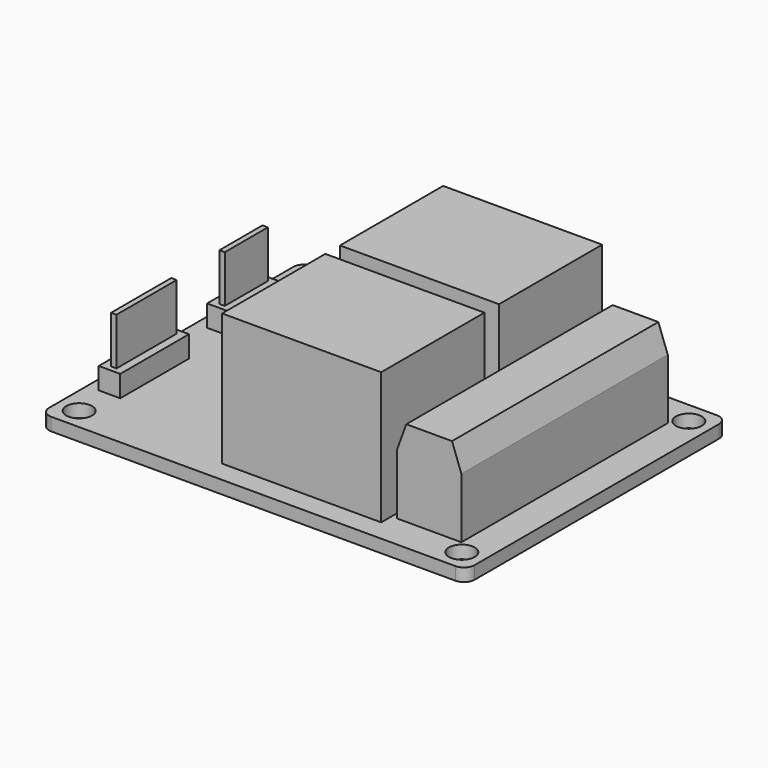
from build123d import *

# Parameters (mm, degrees)
F0_W          = 50.292
F0_H          = 38.608
F0_R          = 1.524
F1_DEPTH      = 1.524
F2_R          = 1.27
F3_W          = 7.62
F3_H          = 30.48
F4_DEPTH      = 10.16
F5_SIZE2      = 1.109381
F5_SIZE       = 3.048
F3_W_2        = 18.796
F3_H_2        = 15.24
F6_DEPTH      = 15.621
F3_W_3        = 2.54
F3_H_3        = 7.62
F3_H_4        = 10.16
F7_DEPTH      = 2.54
F8_W          = 0.635
F8_H          = 6.35
F8_H_2        = 8.89
F9_DEPTH      = 5.588
F9_DEPTH_BACK = 5.715
F10_W         = 1.778
F10_H         = 25.908
F11_DEPTH     = 2.159


with BuildPart() as f1:
    # F0 (on Top) → F1 (new body)
    with BuildSketch(Plane.XY):
        with Locations((25.146, 19.304)):
            Rectangle(F0_W, F0_H)
        with Locations((2.54, 2.54)):
            Circle(F0_R, mode=Mode.SUBTRACT)
        with Locations((47.752, 2.54)):
            Circle(F0_R, mode=Mode.SUBTRACT)
        with Locations((2.54, 36.068)):
            Circle(F0_R, mode=Mode.SUBTRACT)
        with Locations((47.752, 36.068)):
            Circle(F0_R, mode=Mode.SUBTRACT)
    extrude(amount=F1_DEPTH)

    # F2
    f2_edges = [f1.edges().sort_by_distance(p)[0] for p in [
        (50.292, 38.608, 0.762),
        (0, 38.608, 0.762),
        (0, 0, 0.762),
        (50.292, 0, 0.762),
    ]]
    fillet(f2_edges, radius=F2_R)


with BuildPart() as f4:
    # F3 (on face) → F4 (new body)
    with BuildSketch(Plane.XY.offset(1.524)):
        with Locations((42.672, 19.304)):
            Rectangle(F3_W, F3_H)
    extrude(amount=F4_DEPTH)

    # F5
    f5_edges = [f4.edges().sort_by_distance(p)[0] for p in [
        (46.482, 19.304, 11.684),
        (38.862, 19.304, 11.684),
    ]]
    chamfer(f5_edges, length=F5_SIZE, length2=F5_SIZE2)


with BuildPart() as f6:
    # F3 (on face) → F6 (new body)
    with BuildSketch(Plane.XY.offset(1.524)):
        with Locations((28.829, 27.559)):
            Rectangle(F3_W_2, F3_H_2)
        with Locations((28.829, 10.16)):
            Rectangle(F3_W_2, F3_H_2)
    extrude(amount=F6_DEPTH)


with BuildPart() as f7:
    # F3 (on face) → F7 (new body)
    with BuildSketch(Plane.XY.offset(1.524)):
        with Locations((2.667, 26.67)):
            Rectangle(F3_W_3, F3_H_3)
        with Locations((2.667, 11.938)):
            Rectangle(F3_W_3, F3_H_4)
    extrude(amount=F7_DEPTH)


with BuildPart() as f9:
    # F8 (on face) → F9 (new body, two sides)
    with BuildSketch(Plane.XY.offset(4.064)) as f9_sk:
        with Locations((2.667, 26.67)):
            Rectangle(F8_W, F8_H)
        with Locations((2.667, 11.938)):
            Rectangle(F8_W, F8_H_2)
    extrude(amount=F9_DEPTH)
    extrude(f9_sk.sketch, amount=-F9_DEPTH_BACK)


with BuildPart() as f11:
    # F10 (on face) → F11 (new body)
    with BuildSketch(Plane(origin=(0, 0, 0), x_dir=(1, 0, 0), z_dir=(0, 0, -1))):
        with Locations((42.672, -19.304)):
            Rectangle(F10_W, F10_H)
    extrude(amount=F11_DEPTH)


solid = Compound([f1.part, f4.part, f6.part, f7.part, f9.part, f11.part])
